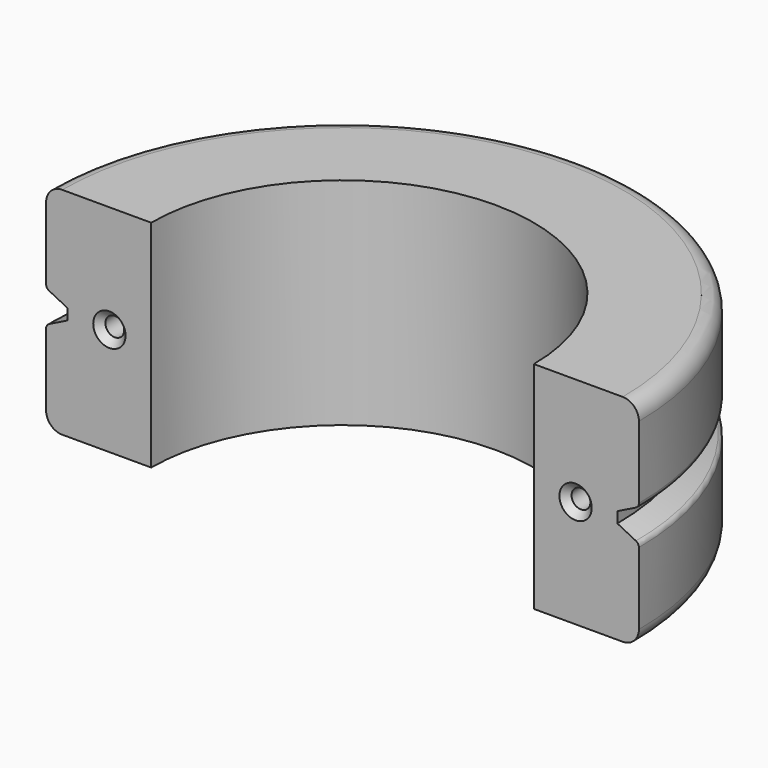
from build123d import *

# Parameters (mm, degrees)
F1_DEPTH       = 40
F5_D           = 3.5
F5_DEPTH       = 20
F5_CSINK_D     = 6
F5_CSINK_ANGLE = 90
F5_TIP         = 1.0515060833
F7_D           = 3.5
F7_DEPTH       = 20
F7_CSINK_D     = 6
F7_CSINK_ANGLE = 90
F7_TIP         = 1.0515060833
F8_R           = 3
F9_R           = 1


with BuildPart() as f1:
    # F0 (on Top) → F1 (new body)
    with BuildSketch(Plane.XY):
        with BuildLine():
            ThreePointArc((-35.5, 0), (0, 35.5), (35.5, 0))
            Line((35.5, 0), (55, 0))
            ThreePointArc((55, 0), (0, 55), (-55, 0))
            Line((-55, 0), (-35.5, 0))
        make_face()
    extrude(amount=F1_DEPTH)

    # F2 (on face) → F3 (revolve, cut)
    with BuildSketch(Plane.XZ):
        Polygon((51, 20), (55, 20), (55, 23), (51, 21), align=None)
        Polygon((51, 19), (55, 17), (55, 20), (51, 20), align=None)
    revolve(axis=Axis((0, 0, 0), (0, 0, -1)), mode=Mode.SUBTRACT)

    # F5
    with Locations(Plane.XZ):
        with Locations((43.25, 20)):
            CounterSinkHole(F5_D / 2, F5_CSINK_D / 2, depth=F5_DEPTH, counter_sink_angle=F5_CSINK_ANGLE)
            with Locations((0, 0, -(F5_DEPTH + F5_TIP / 2))):  # 118° drill point
                Cone(0, F5_D / 2, F5_TIP, mode=Mode.SUBTRACT)

    # F7
    with Locations(Plane.XZ):
        with Locations((-43.25, 20)):
            CounterSinkHole(F7_D / 2, F7_CSINK_D / 2, depth=F7_DEPTH, counter_sink_angle=F7_CSINK_ANGLE)
            with Locations((0, 0, -(F7_DEPTH + F7_TIP / 2))):  # 118° drill point
                Cone(0, F7_D / 2, F7_TIP, mode=Mode.SUBTRACT)

    # F8
    f8_edges = [f1.edges().sort_by_distance(p)[0] for p in [
        (0, 55, 0),
        (0, 55, 40),
    ]]
    fillet(f8_edges, radius=F8_R)

    # F9
    f9_edges = [f1.edges().sort_by_distance(p)[0] for p in [
        (0, 55, 23),
        (0, 55, 17),
    ]]
    fillet(f9_edges, radius=F9_R)


solid = f1.part
